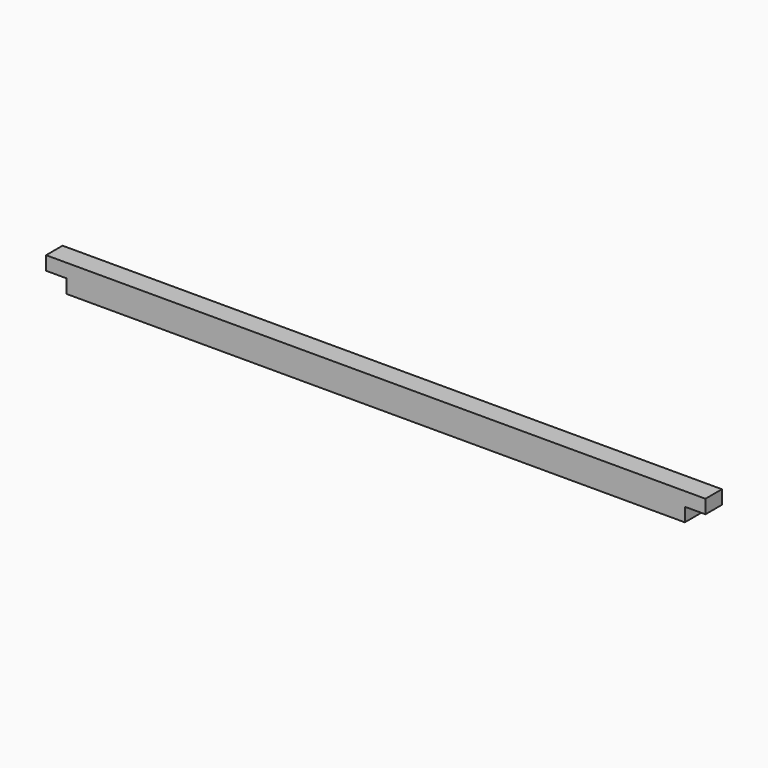
from build123d import *

# Parameters (mm, degrees)
F0_W     = 1219.2
F0_H     = 38.1
F1_DEPTH = 50.8
F2_W     = 38.1
F2_H     = 25.4
F3_DEPTH = 38.1


with BuildPart() as f1:
    # F0 (on Top) → F1 (new body)
    with BuildSketch(Plane.XY):
        Rectangle(F0_W, F0_H)
    extrude(amount=F1_DEPTH)

    # F2 (on face) → F3 (cut)
    with BuildSketch(Plane.XZ.offset(19.05)):
        with Locations((590.55, 12.7)):
            Rectangle(F2_W, F2_H)
        with Locations((-590.55, 12.7)):
            Rectangle(F2_W, F2_H)
    extrude(amount=-F3_DEPTH, mode=Mode.SUBTRACT)


solid = f1.part
